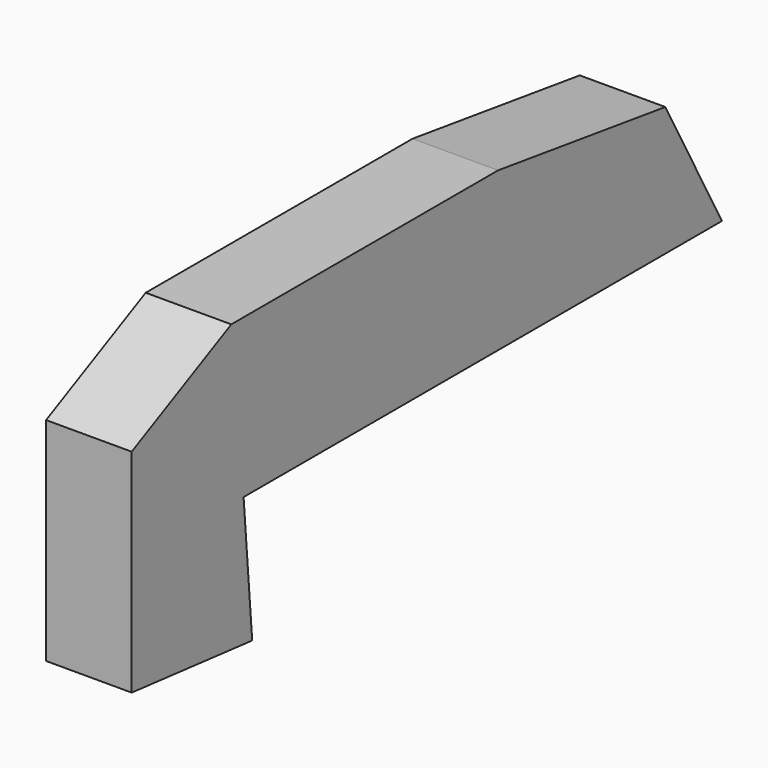
from build123d import *

# Parameters (mm, degrees)
F1_DEPTH = 14.63365


with BuildPart() as f1:
    # F0 (on Right) → F1 (new body)
    with BuildSketch(Plane.YZ):
        Polygon((-55.179313, 23.251403), (-55.179313, -13.009288), (-29.428966, -15.636874), (-31.268276, 6.697609), (0, 6.697609), (70.944831, 6.697609), (58.857936, 28.769335), (23.12276, 33.761747), (-33.895861, 33.761747), align=None)
    extrude(amount=F1_DEPTH)


solid = f1.part
